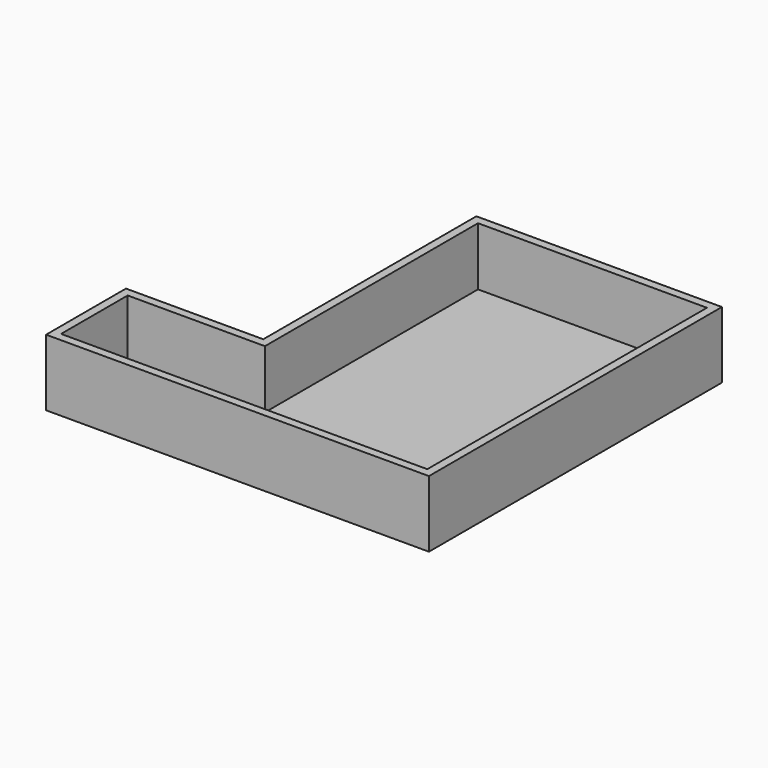
from build123d import *

# Parameters (mm, degrees)
F1_DEPTH = 80
F2_T     = -10


with BuildPart() as f1:
    # F0 (on Top) → F1 (new body)
    with BuildSketch(Plane.XY):
        Polygon((412.4880934142, -22.863402168), (412.4880934142, 417.136597832), (117.423567924, 417.136597832), (117.423567924, 97.136597832), (-47.5119065858, 97.136597832), (-47.5119065858, -22.863402168), align=None)
    extrude(amount=F1_DEPTH)

    # F2
    f2_openings = [f1.faces().sort_by_distance(p)[0] for p in [
        (234.530758, 175.97133, 80),
    ]]
    offset(amount=F2_T, openings=f2_openings, kind=Kind.INTERSECTION)


solid = f1.part
